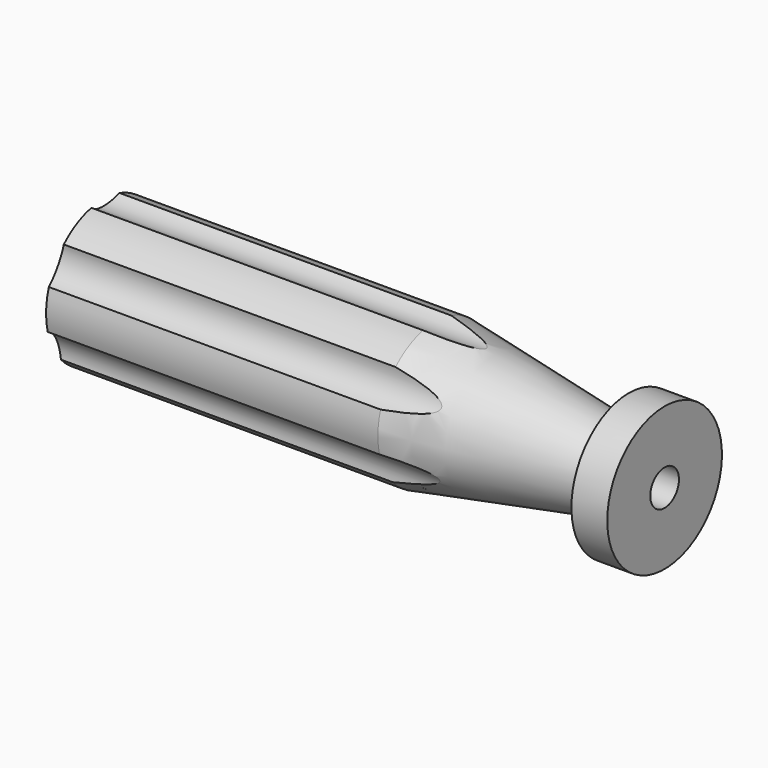
from build123d import *

# Parameters (mm, degrees)
F3_START = -7.62
F2_R     = 4.826
F3_DEPTH = 93.981


with BuildPart() as f1:
    # F0 (on Front) → F1 (revolve)
    with BuildSketch(Plane.XZ):
        with BuildLine():
            Line((0, 3.175), (0, 7.1581820314))
            Line((0, 7.1581820314), (0, 12.7))
            Line((0, 12.7), (-6.35, 12.7))
            Line((-6.35, 12.7), (-6.35, 9.6808019567))
            ThreePointArc((-6.35, 9.6808019567), (-7.2573194714, 7.7350490712), (-9.3310663713, 7.179390264))
            Line((-9.3310663713, 7.179390264), (-40.64, 12.7))
            Line((-40.64, 12.7), (-99.4210244843, 12.7))
            ThreePointArc((-99.4210244843, 12.7), (-101.0513051228, 6.4427853895), (-101.6, 0))
            Line((-101.6, 0), (-40.64, 0))
            Line((-40.64, 0), (-40.64, 3.175))
            Line((-40.64, 3.175), (0, 3.175))
        make_face()
    revolve(axis=Axis((-71.12, 0, 0), (1, 0, 0)))

    # F2 (on face) → F3 (cut)
    with BuildSketch(Plane.YZ.offset(F3_START)):
        with Locations((-14.1259352998, -7.4992162652)):
            Circle(F2_R)
        with Locations((-13.557479444, 8.4838106893)):
            Circle(F2_R)
        with Locations((0.5684558558, 15.9830269545)):
            Circle(F2_R)
        with Locations((14.1259352998, 7.4992162652)):
            Circle(F2_R)
        with Locations((13.557479444, -8.4838106893)):
            Circle(F2_R)
        with Locations((-0.5684558558, -15.9830269545)):
            Circle(F2_R)
    extrude(amount=-F3_DEPTH, mode=Mode.SUBTRACT)


solid = f1.part
